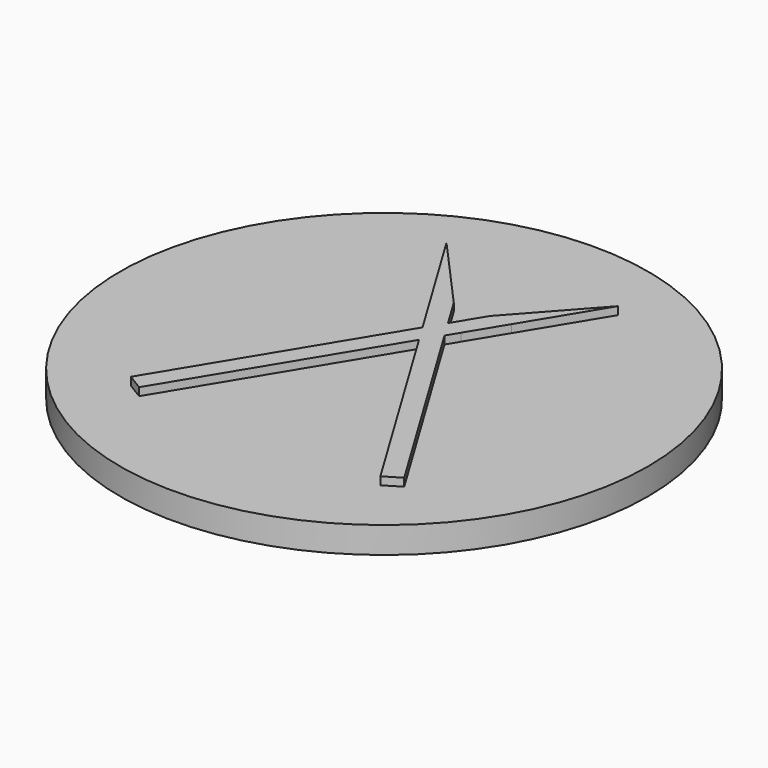
from build123d import *

# Parameters (mm, degrees)
F0_R     = 12.5
F1_DEPTH = 0.625
F2_DEPTH = 1


with BuildPart() as f1:
    # F0 (on Top) → F1 (new body, symmetric)
    with BuildSketch(Plane.XY):
        Circle(F0_R)
        Polygon((-0.8784600757, 5.2192566285), (-0.8525428319, 5.1903319625), (0, 3.7833468732), (0.8525428319, 5.1903319625), (0.8784600757, 5.2192566285), (4.0636942722, 8.7741035968), (1.8921582399, 5.1903319625), (0.8525428319, 3.4746136163), (0.519807704, 2.9254877001), (6.4726816234, -6.8987751159), (5.7122610048, -7.3595412979), (0, 2.0676285271), (-5.7122610048, -7.3595412979), (-6.4726816234, -6.8987751159), (-0.519807704, 2.9254877001), (-0.8525428319, 3.4746136163), (-1.8921582399, 5.1903319625), (-4.0636942722, 8.7741035968), align=None, mode=Mode.SUBTRACT)
    extrude(amount=F1_DEPTH, both=True)

    # F0 (on Top) → F2 (join, symmetric)
    with BuildSketch(Plane.XY):
        Polygon((0, 3.7833468732), (-0.8525428319, 5.1903319625), (-0.8784600757, 5.2192566285), (-0.869668365, 5.1903319625), (-1.8921582399, 5.1903319625), (-0.8525428319, 3.4746136163), (-0.519807704, 2.9254877001), align=None)
        Polygon((0.8525428319, 5.1903319625), (0, 3.7833468732), (0.519807704, 2.9254877001), (0.8525428319, 3.4746136163), (1.8921582399, 5.1903319625), (0.869668365, 5.1903319625), (0.8784600757, 5.2192566285), align=None)
        Polygon((4.0636942722, 8.7741035968), (0.8784600757, 5.2192566285), (0.869668365, 5.1903319625), (1.8921582399, 5.1903319625), align=None)
        Polygon((-0.869668365, 5.1903319625), (-0.8784600757, 5.2192566285), (-4.0636942722, 8.7741035968), (-1.8921582399, 5.1903319625), align=None)
        Polygon((0.519807704, 2.9254877001), (0, 3.7833468732), (-0.519807704, 2.9254877001), (0, 2.0676285271), align=None)
        Polygon((0, 2.0676285271), (-0.519807704, 2.9254877001), (-6.4726816234, -6.8987751159), (-5.7122610048, -7.3595412979), align=None)
        Polygon((6.4726816234, -6.8987751159), (0.519807704, 2.9254877001), (0, 2.0676285271), (5.7122610048, -7.3595412979), align=None)
    extrude(amount=F2_DEPTH, both=True)


solid = f1.part
